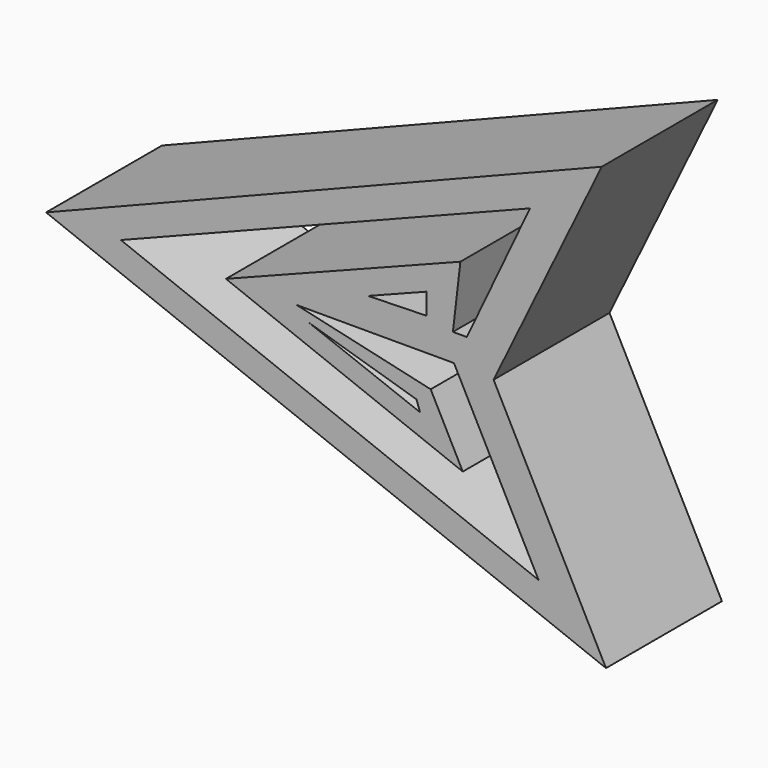
from build123d import *

# Parameters (mm, degrees)
F1_DEPTH = 25.4


with BuildPart() as f1:
    # F0 (on Front) → F1 (new body)
    with BuildSketch(Plane.XZ):
        Polygon((37.505187, 36.036089), (-59.895307, -2.682783), (38.255867, -41.096099), (18.550564, -2.999177), align=None)
        Polygon((5.644079, -12.203965), (-13.873555, -4.697184), (5.034152, -10.421105), align=None, mode=Mode.SUBTRACT)
        Polygon((11.606792, -2.682783), (26.432687, -31.33728), (-46.783395, -2.682783), (24.93133, 25.526594), (13.858826, 2.0679), (11.419123, 2.0679), (12.732809, 13.328073), (-28.366823, -2.682783), (13.1488, -18.930706), (7.523733, -8.055575), (-15.980633, -2.682783), align=None, mode=Mode.SUBTRACT)
        Polygon((6.774401, 3.053483), (-3.437838, 2.788078), (6.774401, 6.766378), align=None, mode=Mode.SUBTRACT)
    extrude(amount=F1_DEPTH)


solid = f1.part
